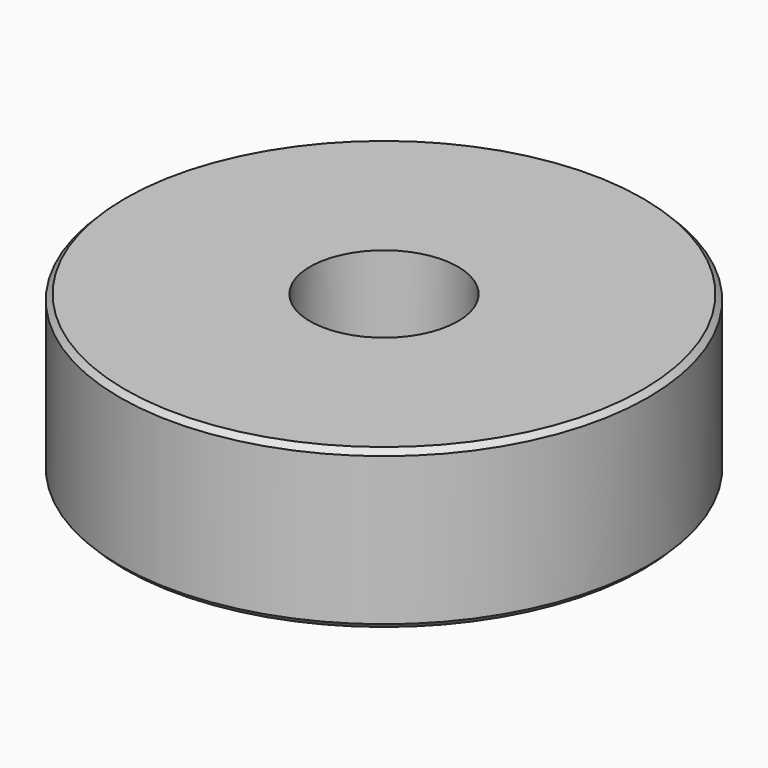
from build123d import *

# Parameters (mm, degrees)
F2_SIZE = 0.5
F3_SIZE = 0.5


with BuildPart() as f1:
    # F0 (on Front) → F1 (revolve)
    with BuildSketch(Plane.XZ):
        Polygon((19, 5), (19, 0), (25, 0), (25, 15), (7, 15), (7, 5), align=None)
    revolve(axis=Axis((0, 0, 18.669182), (0, 0, 1)))

    # F2
    f2_edges = [f1.edges().sort_by_distance(p)[0] for p in [
        (-25, 0, 15),
    ]]
    chamfer(f2_edges, length=F2_SIZE)

    # F3
    f3_edges = [f1.edges().sort_by_distance(p)[0] for p in [
        (-25, 0, 0),
    ]]
    chamfer(f3_edges, length=F3_SIZE)


solid = f1.part
